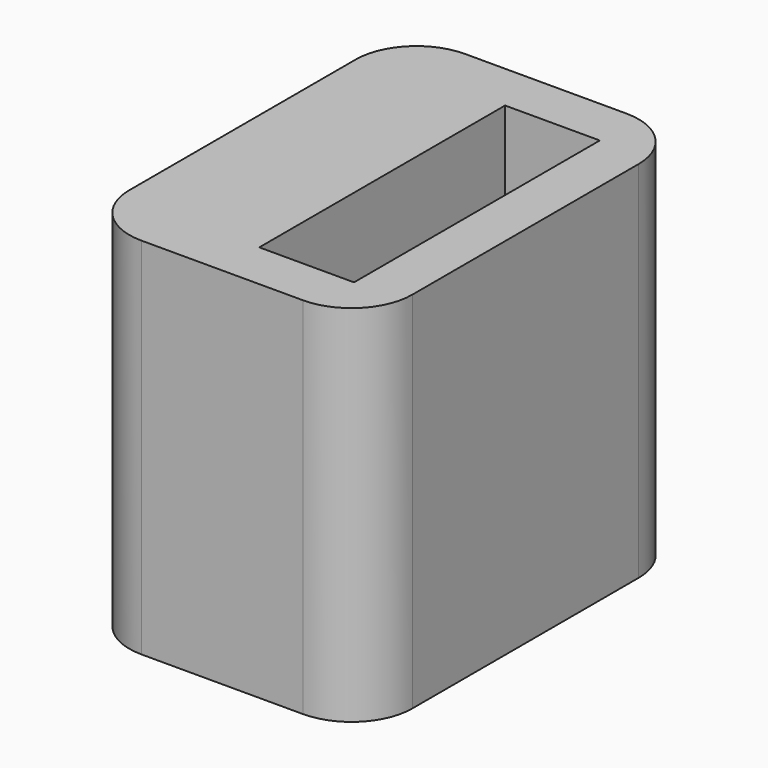
from build123d import *

# Parameters (mm, degrees)
F0_W     = 15.8
F0_H     = 33.3
F0_W_2   = 7.8
F0_H_2   = 25.3
F1_DEPTH = 15
F3_DEPTH = 15
F4_DEPTH = 15
F2_W     = 3.5
F2_H     = 25.3
F5_DEPTH = 15
F6_R     = 5


with BuildPart() as f1:
    # F0 (on Top) → F1 (new body)
    with BuildSketch(Plane.XY):
        Rectangle(F0_W, F0_H)
        Rectangle(F0_W_2, F0_H_2, mode=Mode.SUBTRACT)
    extrude(amount=F1_DEPTH)

    # F2 (on Top) → F3 (join)
    with BuildSketch(Plane.XY):
        Polygon((3.9, 12.65), (3.9, -12.65), (-7.9, -12.65), (-7.9, -16.65), (5.9, -16.65), (5.9, 16.65), (-7.9, 16.65), (-7.9, 12.65), align=None)
        Polygon((-7.9, -16.65), (-7.9, -12.65), (-11.4, -12.65), (-11.4, 12.65), (-7.9, 12.65), (-7.9, 16.65), (-15.4, 16.65), (-15.4, -16.65), align=None)
    extrude(amount=-F3_DEPTH)

    # F4 (add, through all): a face of the model
    f4_faces = [f1.faces().sort_by_distance(p)[0] for p in [
        (6.9, 0, 0),
    ]]
    extrude(f4_faces, amount=F4_DEPTH)

    # F2 (on Top) → F5 (join, through all)
    with BuildSketch(Plane.XY):
        Polygon((-7.9, -16.65), (-7.9, -12.65), (-11.4, -12.65), (-11.4, 12.65), (-7.9, 12.65), (-7.9, 16.65), (-15.4, 16.65), (-15.4, -16.65), align=None)
        with Locations((-9.65, 0)):
            Rectangle(F2_W, F2_H)
    extrude(amount=F5_DEPTH)

    # F6
    f6_edges = [f1.edges().sort_by_distance(p)[0] for p in [
        (-15.4, -16.65, 0),
        (-15.4, 16.65, 0),
        (7.9, 16.65, 0),
        (7.9, -16.65, 0),
    ]]
    fillet(f6_edges, radius=F6_R)


solid = f1.part
